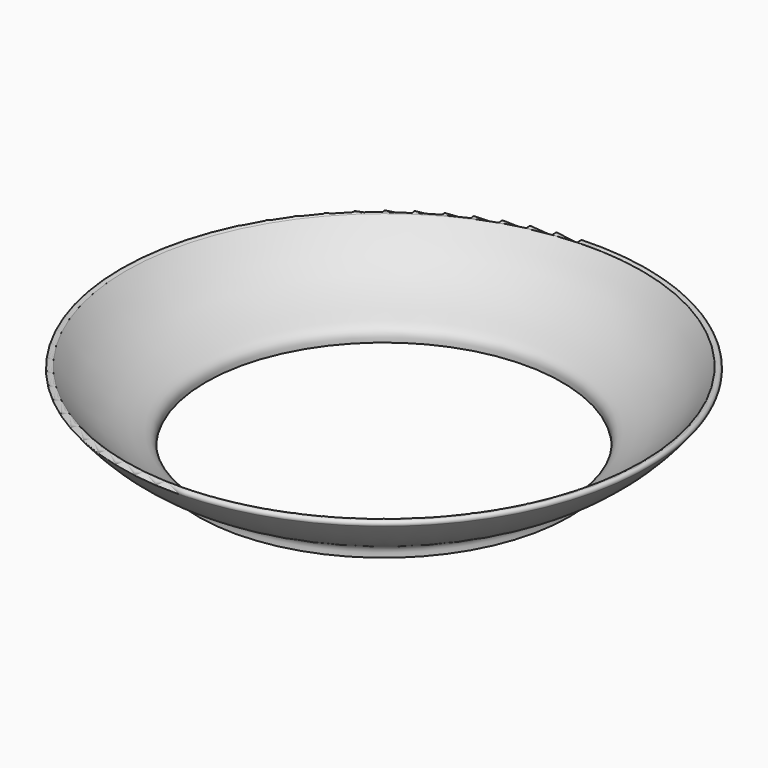
from build123d import *


with BuildPart() as f5:
    # F3 (on Front) → F5 (revolve)
    with BuildSketch(Plane.XZ):
        with BuildLine():
            add(Edge.make_bspline(
                [(-70.05, 0), (-68.896443, 9.032826), (-81.633338, 2.943621), (-99.199276, 25.616767)],
                knots=[0, 0, 0, 0, 39.72199, 39.72199, 39.72199, 39.72199], degree=3))
            Line((-70.05, 0), (-67.05, 0))
            add(Edge.make_bspline(
                [(-67.05, 0), (-65.876085, 9.192239), (-79.182765, 2.748195), (-97.25, 27)],
                knots=[0, 0, 0, 0, 40.509752, 40.509752, 40.509752, 40.509752], degree=3))
            Line((-97.25, 27), (-99.199276, 25.616767))
        make_face()
        with BuildLine():
            ThreePointArc((-97.25, 27), (-98.896556, 27.255262), (-99.199276, 25.616767))
            Line((-99.199276, 25.616767), (-97.25, 27))
        make_face()
    revolve(axis=Axis((0, 0, 23.643954), (0, 0, 1)))


solid = f5.part
